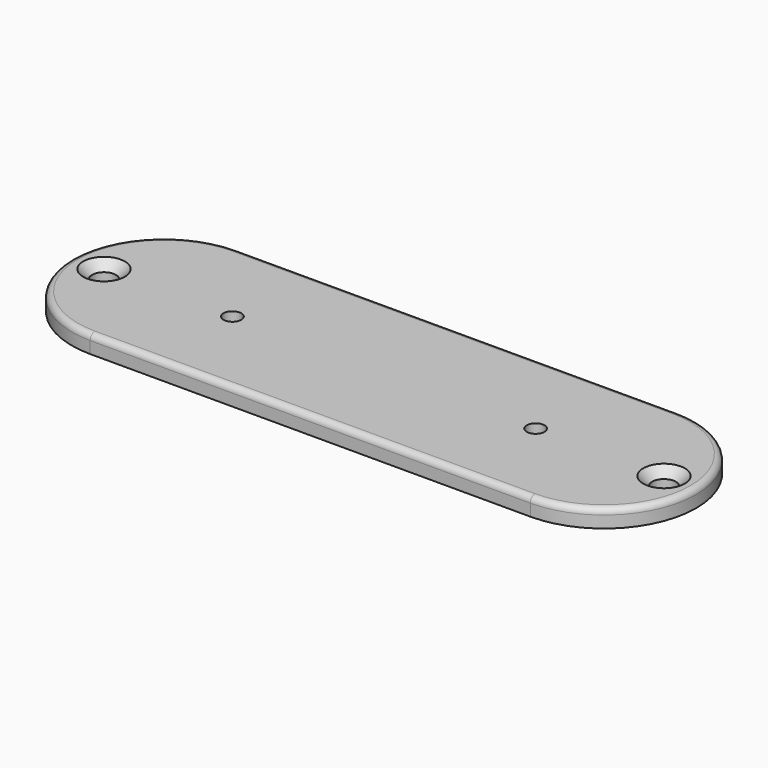
from build123d import *

# Parameters (mm, degrees)
F0_R     = 2
F0_R_2   = 1.5
F1_DEPTH = 3
F2_R     = 1
F3_SIZE  = 1.5


with BuildPart() as f1:
    # F0 (on Top) → F1 (new body)
    with BuildSketch(Plane.XY):
        with BuildLine():
            Line((37, 15.5), (-37, 15.5))
            ThreePointArc((-37, 15.5), (-52.5, 0), (-37, -15.5))
            Line((-37, -15.5), (37, -15.5))
            ThreePointArc((37, -15.5), (52.5, 0), (37, 15.5))
        make_face()
        with Locations((-47.087446, 0)):
            Circle(F0_R, mode=Mode.SUBTRACT)
        with Locations((-25.5, 0)):
            Circle(F0_R_2, mode=Mode.SUBTRACT)
        with Locations((25.5, 0)):
            Circle(F0_R_2, mode=Mode.SUBTRACT)
        with Locations((47.087446, 0)):
            Circle(F0_R, mode=Mode.SUBTRACT)
    extrude(amount=F1_DEPTH)

    # F2
    f2_edges = [f1.edges().sort_by_distance(p)[0] for p in [
        (-52.5, 0, 3),
    ]]
    fillet(f2_edges, radius=F2_R)

    # F3
    f3_edges = [f1.edges().sort_by_distance(p)[0] for p in [
        (-49.087446, 0, 3),
        (45.087446, 0, 3),
    ]]
    chamfer(f3_edges, length=F3_SIZE)


solid = f1.part
